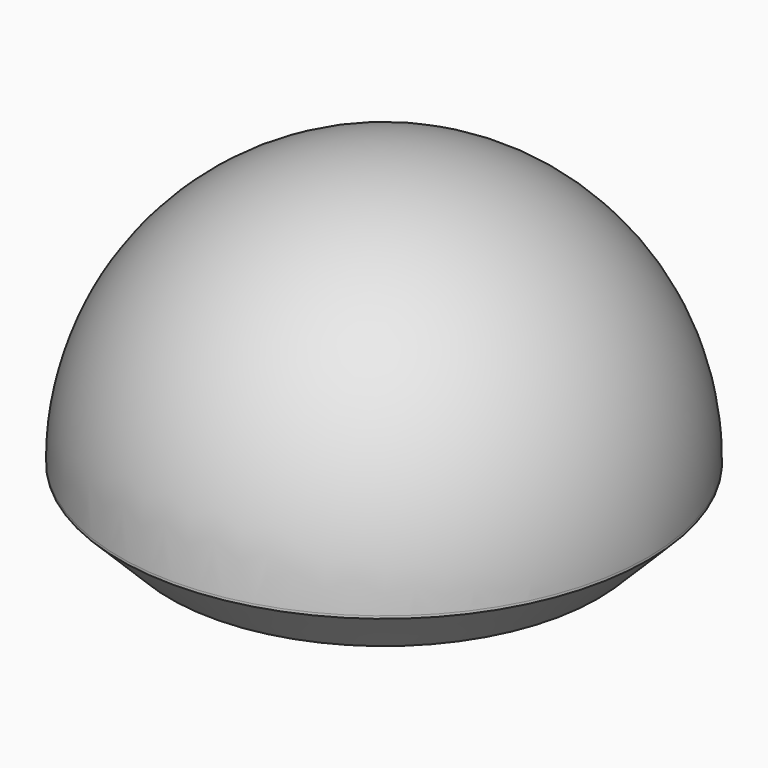
from build123d import *

# Parameters (mm, degrees)
REVOLUTION_ANGLE = 180
SKETCH001_R      = 100
PAD_DEPTH        = 20
CHAMFER_SIZE     = 19


with BuildPart() as revolution:
    # Sketch → Revolution (revolve)
    with BuildSketch(Plane.XY):
        with BuildLine():
            ThreePointArc((100, 0), (0, 100), (-100, 0))
            Line((-100, 0), (100, 0))
        make_face()
    revolve(axis=Axis((0, 0, 0), (1, 0, 0)), revolution_arc=REVOLUTION_ANGLE)


with BuildPart() as chamfer_body:
    # Sketch001 → Pad (new body)
    with BuildSketch(Plane.XY):
        Circle(SKETCH001_R)
    extrude(amount=-PAD_DEPTH)

    # Chamfer
    chamfer_edges = [chamfer_body.edges().sort_by_distance(p)[0] for p in [
        (-100, 0, -20),
    ]]
    chamfer(chamfer_edges, length=CHAMFER_SIZE)


solid = Compound([revolution.part, chamfer_body.part])
